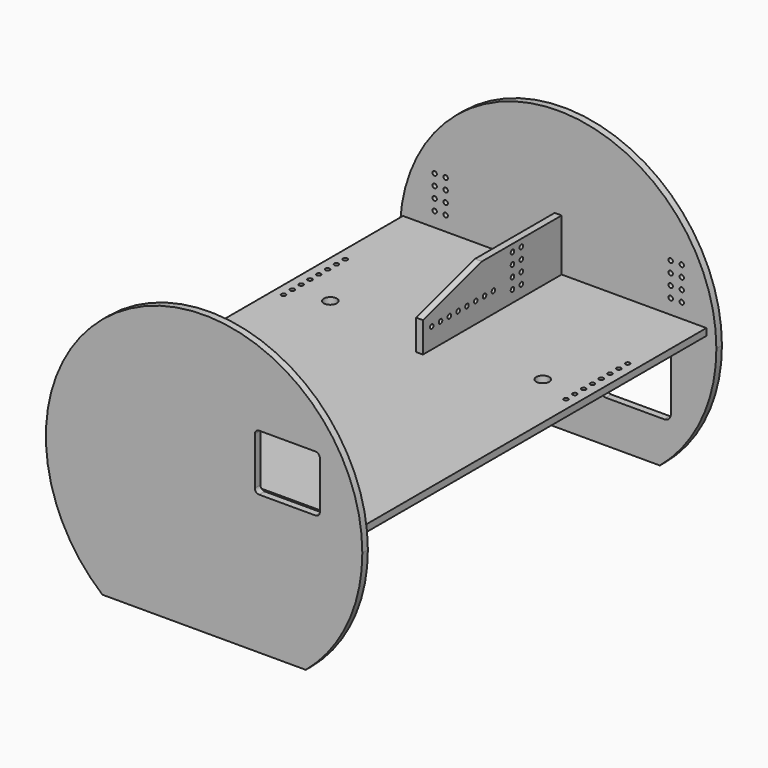
from build123d import *

# Parameters (mm, degrees)
F1_DEPTH  = 1.6
F2_R      = 0.508
F2_R_2    = 0.75
F3_DEPTH  = 25
F5_W      = 70
F5_H      = 1.6
F6_DEPTH  = 99
F7_R      = 1.5
F7_R_2    = 0.508
F8_DEPTH  = 25
F9_R      = 0.508
F10_DEPTH = 1.6
F13_DEPTH = 1.6


with BuildPart() as f1:
    # F0 (on Front) → F1 (new body)
    with BuildSketch(Plane.XZ):
        with BuildLine():
            ThreePointArc((23.4617477536, -27.9606221738), (33.0802342268, -15.4255665535), (36.5, 0))
            ThreePointArc((36.5, 0), (-15.4255665535, 33.0802342268), (-23.4617477536, -27.9606221738))
            Line((-23.4617477536, -27.9606221738), (23.4617477536, -27.9606221738))
        make_face()
    extrude(amount=F1_DEPTH)

    # F2 (on face) → F3 (cut)
    with BuildSketch(Plane.XZ.offset(1.6)):
        with Locations((28.5, 14.46)):
            Circle(F2_R)
        with Locations((28.5, 11.92)):
            Circle(F2_R)
        with Locations((28.5, 9.38)):
            Circle(F2_R)
        with Locations((28.5, 6.84)):
            Circle(F2_R)
        with Locations((25.96, 14.46)):
            Circle(F2_R)
        with Locations((25.96, 11.92)):
            Circle(F2_R)
        with Locations((25.96, 9.38)):
            Circle(F2_R)
        with Locations((25.96, 6.84)):
            Circle(F2_R)
        with BuildLine():
            ThreePointArc((26, -5.25), (25.5606601718, -4.1893398282), (24.5, -3.75))
            Line((24.5, -3.75), (11, -3.75))
            ThreePointArc((11, -3.75), (9.9393398282, -4.1893398282), (9.5, -5.25))
            Line((9.5, -5.25), (9.5, -16.75))
            ThreePointArc((9.5, -16.75), (9.9393398282, -17.8106601718), (11, -18.25))
            Line((11, -18.25), (24.5, -18.25))
            ThreePointArc((24.5, -18.25), (25.5606601718, -17.8106601718), (26, -16.75))
            Line((26, -16.75), (26, -5.25))
        make_face()
        with Locations((-22.5, -5.405)):
            Circle(F2_R_2)
        with Locations((-20, -5.405)):
            Circle(F2_R_2)
        with Locations((-18, -5.405)):
            Circle(F2_R_2)
        with Locations((-15.5, -5.405)):
            Circle(F2_R_2)
        with Locations((-22.5, -13.905)):
            Circle(F2_R_2)
        with Locations((-20, -13.905)):
            Circle(F2_R_2)
        with Locations((-18, -13.905)):
            Circle(F2_R_2)
        with Locations((-15.5, -13.905)):
            Circle(F2_R_2)
        with Locations((-4.5, -5.405)):
            Circle(F2_R_2)
        with Locations((-2, -5.405)):
            Circle(F2_R_2)
        with Locations((0, -5.405)):
            Circle(F2_R_2)
        with Locations((2.5, -5.405)):
            Circle(F2_R_2)
        with Locations((-4.5, -13.905)):
            Circle(F2_R_2)
        with Locations((-2, -13.905)):
            Circle(F2_R_2)
        with Locations((0, -13.905)):
            Circle(F2_R_2)
        with Locations((2.5, -13.905)):
            Circle(F2_R_2)
        with Locations((-25.96, 6.84)):
            Circle(F2_R)
        with Locations((-25.96, 9.38)):
            Circle(F2_R)
        with Locations((-25.96, 11.92)):
            Circle(F2_R)
        with Locations((-25.96, 14.46)):
            Circle(F2_R)
        with Locations((-28.5, 14.46)):
            Circle(F2_R)
        with Locations((-28.5, 11.92)):
            Circle(F2_R)
        with Locations((-28.5, 9.38)):
            Circle(F2_R)
        with Locations((-28.5, 6.84)):
            Circle(F2_R)
    extrude(amount=-F3_DEPTH, mode=Mode.SUBTRACT)


with BuildPart() as f6:
    # F5 (on offset) → F6 (new body)
    with BuildSketch(Plane.XZ.offset(2.6)):
        with Locations((0, 3.3193778262)):
            Rectangle(F5_W, F5_H)
    extrude(amount=F6_DEPTH)

    # F7 (on face) → F8 (cut)
    with BuildSketch(Plane.XY.offset(4.1193778262)):
        with Locations((-24.5, -36.67)):
            Circle(F7_R)
        with Locations((24.5, -94.67)):
            Circle(F7_R)
        with Locations((-24.5, -94.67)):
            Circle(F7_R)
        with Locations((24.5, -36.67)):
            Circle(F7_R)
        with Locations((-32.58, -22.28)):
            Circle(F7_R_2)
        with Locations((-32.58, -24.82)):
            Circle(F7_R_2)
        with Locations((-32.58, -27.36)):
            Circle(F7_R_2)
        with Locations((-32.58, -29.9)):
            Circle(F7_R_2)
        with Locations((-32.58, -32.44)):
            Circle(F7_R_2)
        with Locations((-32.58, -34.98)):
            Circle(F7_R_2)
        with Locations((-32.58, -37.52)):
            Circle(F7_R_2)
        with Locations((-32.58, -40.06)):
            Circle(F7_R_2)
        with Locations((32.58, -40.06)):
            Circle(F7_R_2)
        with Locations((32.58, -37.52)):
            Circle(F7_R_2)
        with Locations((32.58, -34.98)):
            Circle(F7_R_2)
        with Locations((32.58, -32.44)):
            Circle(F7_R_2)
        with Locations((32.58, -29.9)):
            Circle(F7_R_2)
        with Locations((32.58, -27.36)):
            Circle(F7_R_2)
        with Locations((32.58, -24.82)):
            Circle(F7_R_2)
        with Locations((32.58, -22.28)):
            Circle(F7_R_2)
    extrude(amount=-F8_DEPTH, mode=Mode.SUBTRACT)


with BuildPart() as f10:
    # F9 (on Right) → F10 (new body)
    with BuildSketch(Plane.YZ):
        Polygon((-2.6, 4.1193778262), (-2.6, 16.1193778262), (-25.6, 16.1193778262), (-42.6, 11.1193778262), (-42.6, 4.1193778262), align=None)
        with Locations((-40.06, 8.7993778262)):
            Circle(F9_R, mode=Mode.SUBTRACT)
        with Locations((-37.52, 8.7993778262)):
            Circle(F9_R, mode=Mode.SUBTRACT)
        with Locations((-34.98, 8.7993778262)):
            Circle(F9_R, mode=Mode.SUBTRACT)
        with Locations((-32.44, 8.7993778262)):
            Circle(F9_R, mode=Mode.SUBTRACT)
        with Locations((-29.9, 8.7993778262)):
            Circle(F9_R, mode=Mode.SUBTRACT)
        with Locations((-27.36, 8.7993778262)):
            Circle(F9_R, mode=Mode.SUBTRACT)
        with Locations((-24.82, 8.7993778262)):
            Circle(F9_R, mode=Mode.SUBTRACT)
        with Locations((-16.78, 6.84)):
            Circle(F9_R, mode=Mode.SUBTRACT)
        with Locations((-14.24, 6.84)):
            Circle(F9_R, mode=Mode.SUBTRACT)
        with Locations((-22.28, 8.7993778262)):
            Circle(F9_R, mode=Mode.SUBTRACT)
        with Locations((-16.78, 9.38)):
            Circle(F9_R, mode=Mode.SUBTRACT)
        with Locations((-14.24, 9.38)):
            Circle(F9_R, mode=Mode.SUBTRACT)
        with Locations((-16.78, 11.92)):
            Circle(F9_R, mode=Mode.SUBTRACT)
        with Locations((-14.24, 11.92)):
            Circle(F9_R, mode=Mode.SUBTRACT)
        with Locations((-16.78, 14.46)):
            Circle(F9_R, mode=Mode.SUBTRACT)
        with Locations((-14.24, 14.46)):
            Circle(F9_R, mode=Mode.SUBTRACT)
    extrude(amount=F10_DEPTH)


with BuildPart() as f13:
    # F12 (on offset) → F13 (new body)
    with BuildSketch(Plane.XZ.offset(102.1)):
        with BuildLine():
            ThreePointArc((23.4617477536, -27.9606221738), (33.0802342268, -15.4255665535), (36.5, 0))
            ThreePointArc((36.5, 0), (-15.4255665535, 33.0802342268), (-23.4617477536, -27.9606221738))
            Line((-23.4617477536, -27.9606221738), (23.4617477536, -27.9606221738))
        make_face()
        with BuildLine():
            Line((12.7, 17.1193778262), (25.7, 17.1193778262))
            ThreePointArc((25.7, 17.1193778262), (26.4071067812, 16.8264846073), (26.7, 16.1193778262))
            Line((26.7, 16.1193778262), (26.7, 5.1193778262))
            ThreePointArc((26.7, 5.1193778262), (26.4071067812, 4.412271045), (25.7, 4.1193778262))
            Line((25.7, 4.1193778262), (12.7, 4.1193778262))
            ThreePointArc((12.7, 4.1193778262), (11.9928932188, 4.412271045), (11.7, 5.1193778262))
            Line((11.7, 5.1193778262), (11.7, 16.1193778262))
            ThreePointArc((11.7, 16.1193778262), (11.9928932188, 16.8264846073), (12.7, 17.1193778262))
        make_face(mode=Mode.SUBTRACT)
    extrude(amount=F13_DEPTH)


solid = Compound([f1.part, f6.part, f10.part, f13.part])
